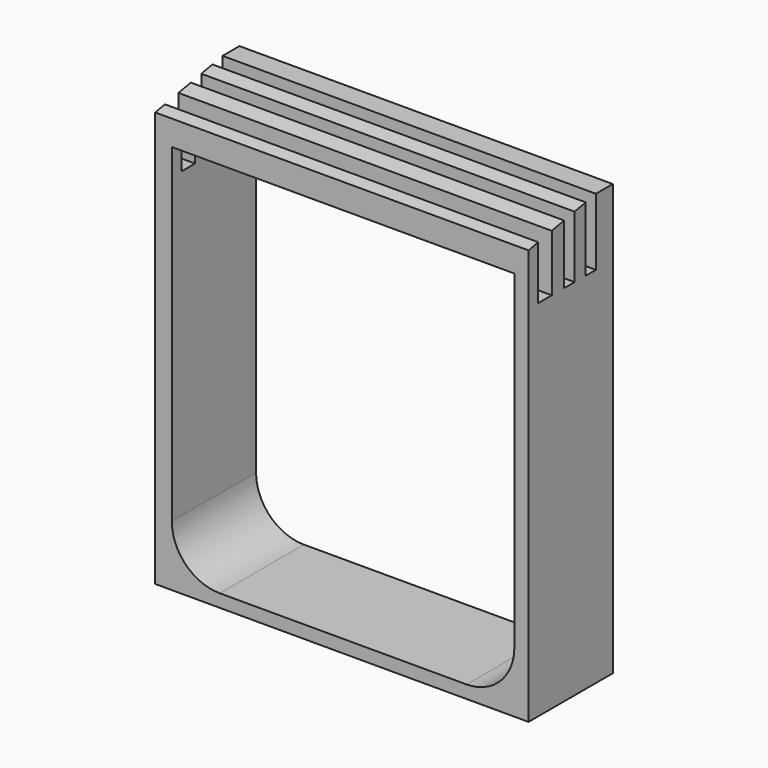
from build123d import *

# Parameters (mm, degrees)
F0_W     = 780
F0_H     = 220
F1_DEPTH = 900
F2_W     = 715.66108
F2_H     = 788.264372
F3_DEPTH = 220
F5_DEPTH = 780
F6_W     = 780
F6_H     = 27.488791
F6_H_2   = 35.378739
F6_H_3   = 26.604801
F7_DEPTH = 140
F8_R     = 100


with BuildPart() as f1:
    # F0 (on Top) → F1 (new body)
    with BuildSketch(Plane.XY):
        with Locations((-390, 110)):
            Rectangle(F0_W, F0_H)
    extrude(amount=F1_DEPTH)

    # F2 (on face) → F3 (cut, through all)
    with BuildSketch(Plane.XZ):
        with Locations((-387.470587, 420.982849)):
            Rectangle(F2_W, F2_H)
    extrude(amount=-F3_DEPTH, mode=Mode.SUBTRACT)

    # F4 (on face) → F5 (cut, through all)
    with BuildSketch(Plane.YZ):
        Polygon((0, 867.352068), (175.820604, 900), (0, 900), align=None)
    extrude(amount=-F5_DEPTH, mode=Mode.SUBTRACT)

    # F6 (on face) → F7 (cut)
    with BuildSketch(Plane.XY.offset(900)):
        with Locations((-390, 106.569055)):
            Rectangle(F6_W, F6_H)
        with Locations((-390, 43.035474)):
            Rectangle(F6_W, F6_H_2)
        with Locations((-390, 162.518203)):
            Rectangle(F6_W, F6_H_3)
    extrude(amount=-F7_DEPTH, mode=Mode.SUBTRACT)

    # F8
    f8_edges = [f1.edges().sort_by_distance(p)[0] for p in [
        (-745.301127, 110, 26.850663),
        (-29.640047, 110, 26.850663),
    ]]
    fillet(f8_edges, radius=F8_R)


solid = f1.part
